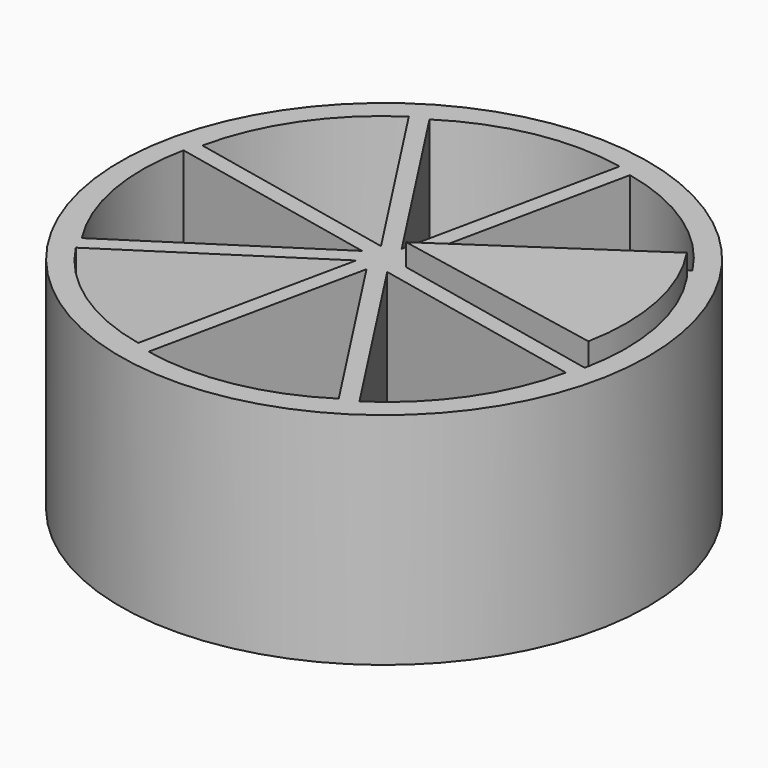
from build123d import *

# Parameters (mm, degrees)
CYLINDER001_W               = 10
CYLINDER001_H               = 10
CYLINDER001_ANGLE           = 45
CYLINDER001_PLACEMENT_ANGLE = 348
ARRAY_COUNT                 = 8
CYLINDER_R                  = 12
CYLINDER_DEPTH              = 10
CYLINDER002_W               = 10
CYLINDER002_H               = 10
CYLINDER002_ANGLE           = 45
CYLINDER002_PLACEMENT_ANGLE = 11


with BuildPart() as triangles_petits:
    # Cylinder001 → Cylinder001 (revolve)
    with BuildSketch(Plane.XZ):
        with Locations((5, 5)):
            Rectangle(CYLINDER001_W, CYLINDER001_H)
    revolve(axis=Axis((0, 0, 0), (0, 0, 1)), revolution_arc=CYLINDER001_ANGLE)


with BuildPart() as triangles_petits_1:
    # Cylinder001 placement: moved
    add(triangles_petits.part.moved(Location((1, 0, 0))).rotate(Axis((1, 0, 0), (0, 0, 1)), CYLINDER001_PLACEMENT_ANGLE))

    # Array: Triangles petits ×8 about axis
    array_axis = Axis((0, 0, 0), (0, 0, 1))


with BuildPart() as triangles_petits_2:
    add(triangles_petits_1.part)
    for i in range(1, ARRAY_COUNT):
        add(triangles_petits_1.part.rotate(array_axis, i * 360 / ARRAY_COUNT))


with BuildPart() as base:
    # Cylinder → Cylinder (new body)
    with BuildSketch(Plane.XY.offset(-1)):
        Circle(CYLINDER_R)
    extrude(amount=CYLINDER_DEPTH)

    # Cut: cut Triangles petits
    add(triangles_petits_2.part, mode=Mode.SUBTRACT)


with BuildPart() as cilindre:
    # Cylinder002 → Cylinder002 (revolve)
    with BuildSketch(Plane.XZ):
        with Locations((5, 5)):
            Rectangle(CYLINDER002_W, CYLINDER002_H)
    revolve(axis=Axis((0, 0, 0), (0, 0, 1)), revolution_arc=CYLINDER002_ANGLE)


with BuildPart() as cilindre_1:
    # Cylinder002 placement: moved
    add(cilindre.part.moved(Location((1, 0, 0))).rotate(Axis((1, 0, 0), (0, 0, -1)), CYLINDER002_PLACEMENT_ANGLE))


solid = Compound([base.part, cilindre_1.part])
